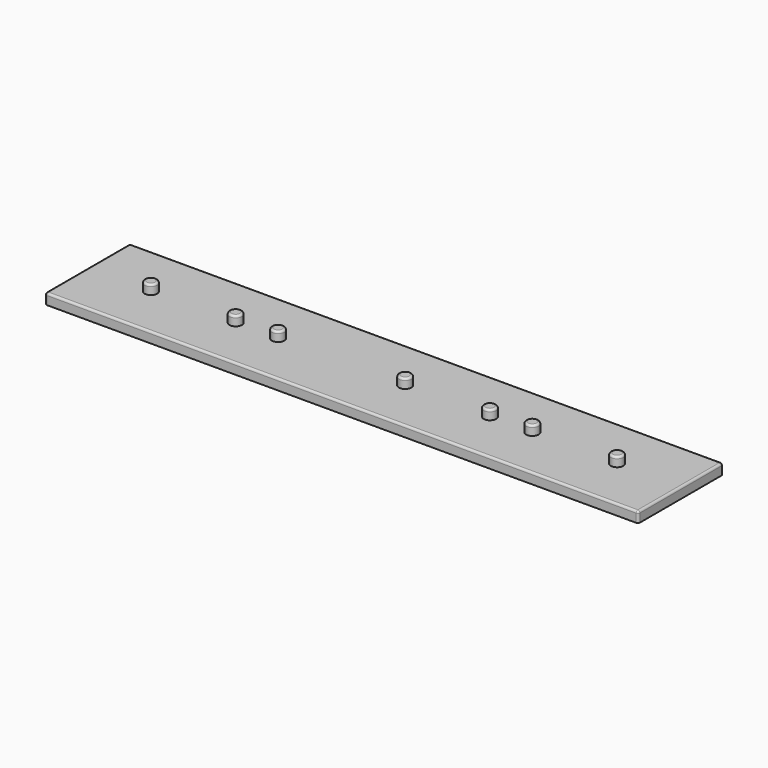
from build123d import *

# Parameters (mm, degrees)
SKETCH_W     = 280
SKETCH_H     = 50
PAD_DEPTH    = 5
FILLET_R     = 1
FILLET001_R  = 1
FILLET002_R  = 1
FILLET003_R  = 1
SKETCH001_R  = 2.95
PAD001_DEPTH = 4.5
FILLET004_R  = 1
FILLET005_R  = 1
FILLET006_R  = 1
FILLET007_R  = 1
FILLET008_R  = 1
FILLET009_R  = 1
FILLET010_R  = 1


with BuildPart() as part:
    # Sketch → Pad (new body)
    with BuildSketch(Plane.XY):
        Rectangle(SKETCH_W, SKETCH_H)
    extrude(amount=PAD_DEPTH)

    # Fillet
    fillet_edges = [part.edges().sort_by_distance(p)[0] for p in [
        (0, -25, 5),
    ]]
    fillet(fillet_edges, radius=FILLET_R)

    # Fillet001
    fillet001_edges = [part.edges().sort_by_distance(p)[0] for p in [
        (-140, 0.5, 5),
    ]]
    fillet(fillet001_edges, radius=FILLET001_R)

    # Fillet002
    fillet002_edges = [part.edges().sort_by_distance(p)[0] for p in [
        (140, 0.5, 5),
    ]]
    fillet(fillet002_edges, radius=FILLET002_R)

    # Fillet003
    fillet003_edges = [part.edges().sort_by_distance(p)[0] for p in [
        (0, 25, 5),
    ]]
    fillet(fillet003_edges, radius=FILLET003_R)

    # Sketch001 (on Face18 of Fillet003) → Pad001 (join)
    with BuildSketch(Plane.XY.offset(5)):
        with Locations((10, 0)):
            Circle(SKETCH001_R)
        with Locations((50, 0)):
            Circle(SKETCH001_R)
        with Locations((110, 0)):
            Circle(SKETCH001_R)
        with Locations((70, 0)):
            Circle(SKETCH001_R)
        with Locations((-50, 0)):
            Circle(SKETCH001_R)
        with Locations((-70, 0)):
            Circle(SKETCH001_R)
        with Locations((-110, 0)):
            Circle(SKETCH001_R)
    extrude(amount=PAD001_DEPTH)

    # Fillet004
    fillet004_edges = [part.edges().sort_by_distance(p)[0] for p in [
        (-112.95, 0, 9.5),
    ]]
    fillet(fillet004_edges, radius=FILLET004_R)

    # Fillet005
    fillet005_edges = [part.edges().sort_by_distance(p)[0] for p in [
        (-72.95, 0, 9.5),
    ]]
    fillet(fillet005_edges, radius=FILLET005_R)

    # Fillet006
    fillet006_edges = [part.edges().sort_by_distance(p)[0] for p in [
        (-52.95, 0, 9.5),
    ]]
    fillet(fillet006_edges, radius=FILLET006_R)

    # Fillet007
    fillet007_edges = [part.edges().sort_by_distance(p)[0] for p in [
        (7.05, 0, 9.5),
    ]]
    fillet(fillet007_edges, radius=FILLET007_R)

    # Fillet008
    fillet008_edges = [part.edges().sort_by_distance(p)[0] for p in [
        (47.05, 0, 9.5),
    ]]
    fillet(fillet008_edges, radius=FILLET008_R)

    # Fillet009
    fillet009_edges = [part.edges().sort_by_distance(p)[0] for p in [
        (67.05, 0, 9.5),
    ]]
    fillet(fillet009_edges, radius=FILLET009_R)

    # Fillet010
    fillet010_edges = [part.edges().sort_by_distance(p)[0] for p in [
        (107.05, 0, 9.5),
    ]]
    fillet(fillet010_edges, radius=FILLET010_R)


solid = part.part
